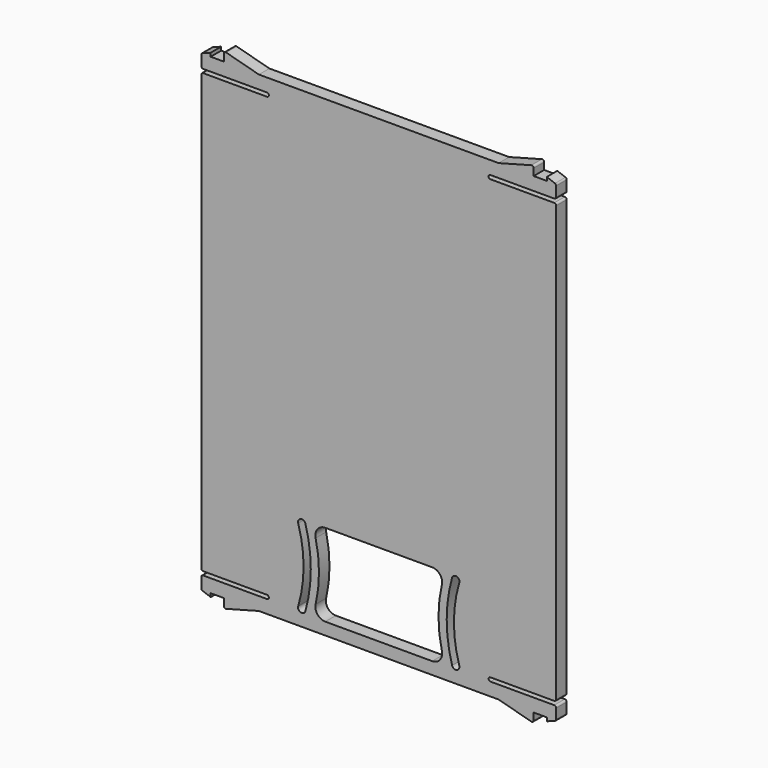
from build123d import *

# Parameters (mm, degrees)
PAD008_DEPTH = 2.8
FILLET001_R  = 0.4
POCKET_DEPTH = 2.801


with BuildPart() as part:
    # Sketch008 (on Face4 of ShapeBinder007) → Pad008 (new body)
    with BuildSketch(Plane(origin=(0, 20.1, 0), x_dir=(-1, 0, 0), z_dir=(0, 1, 0))):
        with BuildLine():
            Line((37.8, 63.2), (37.8, 60.4))
            Line((37.8, 60.4), (23.8, 60.4))
            ThreePointArc((23.8, 60.4), (23.4, 60), (23.8, 59.6))
            Line((23.8, 59.6), (37.8, 59.6))
            Line((37.8, 59.6), (37.8, -33.8))
            Line((37.8, -33.8), (23.8, -33.8))
            ThreePointArc((23.8, -33.8), (23.4, -34.2), (23.8, -34.6))
            Line((23.8, -34.6), (37.8, -34.6))
            Line((37.8, -34.6), (37.8, -37.4))
            Line((37.8, -37.4), (35.8, -38.15))
            Line((35.8, -38.15), (35.8, -37.4))
            Line((35.8, -37.4), (33, -37.4))
            Line((33, -39.4), (33, -37.4))
            Line((25.535898, -37.4), (33, -39.4))
            Line((-25.535898, -37.4), (25.535898, -37.4))
            Line((-33, -39.4), (-25.535898, -37.4))
            Line((-33, -37.4), (-33, -39.4))
            Line((-35.8, -37.4), (-33, -37.4))
            Line((-35.8, -38.15), (-35.8, -37.4))
            Line((-37.8, -37.4), (-35.8, -38.15))
            Line((-37.8, -37.4), (-37.8, -34.6))
            Line((-37.8, -34.6), (-23.8, -34.6))
            ThreePointArc((-23.8, -34.6), (-23.4, -34.2), (-23.8, -33.8))
            Line((-23.8, -33.8), (-37.8, -33.8))
            Line((-37.8, -33.8), (-37.8, 59.6))
            Line((-23.8, 59.6), (-37.8, 59.6))
            ThreePointArc((-23.8, 59.6), (-23.4, 60), (-23.8, 60.4))
            Line((-37.8, 60.4), (-23.8, 60.4))
            Line((-37.8, 60.4), (-37.8, 63.2))
            Line((-37.8, 63.2), (-35.8, 63.95))
            Line((-35.8, 63.95), (-35.8, 63.2))
            Line((-35.8, 63.2), (-33, 63.2))
            Line((-33, 65.2), (-33, 63.2))
            Line((-25.535898, 63.2), (-33, 65.2))
            Line((25.535898, 63.2), (-25.535898, 63.2))
            Line((33, 65.2), (25.535898, 63.2))
            Line((33, 63.2), (33, 65.2))
            Line((35.8, 63.2), (33, 63.2))
            Line((35.8, 63.95), (35.8, 63.2))
            Line((37.8, 63.2), (35.8, 63.95))
        make_face()
    extrude(amount=-PAD008_DEPTH)

    # Fillet001
    fillet001_edges = [part.edges().sort_by_distance(p)[0] for p in [
        (-33, 18.7, 65.2),
        (-37.8, 18.7, 63.2),
        (-37.8, 18.7, 60.4),
        (-37.8, 18.7, 59.6),
        (-37.8, 18.7, -33.8),
        (-37.8, 18.7, -34.6),
        (-37.8, 18.7, -37.4),
        (-33, 18.7, -39.4),
        (33, 18.7, 65.2),
        (37.8, 18.7, 63.2),
        (37.8, 18.7, 60.4),
        (37.8, 18.7, 59.6),
        (37.8, 18.7, -33.8),
        (37.8, 18.7, -34.6),
        (37.8, 18.7, -37.4),
        (33, 18.7, -39.4),
    ]]
    fillet(fillet001_edges, radius=FILLET001_R)

    # Sketch029 (on Face2 of Fillet001) → Pocket (cut, through all)
    with BuildSketch(Plane(origin=(0, 20.1, 0), x_dir=(-1, 0, 0), z_dir=(0, 1, 0))):
        with BuildLine():
            Line((-11.39, -34.8), (11.39, -34.8))
            ThreePointArc((11.39, -34.8), (13.043156, -34.001173), (13.444572, -32.209549))
            ThreePointArc((13.444577, -19.790431), (12.728234, -25.99999), (13.444572, -32.209549))
            ThreePointArc((13.444577, -19.790431), (13.04315, -17.998819), (11.39, -17.2))
            Line((11.39, -17.2), (-11.39, -17.2))
            ThreePointArc((-11.39, -17.2), (-13.04315, -17.998819), (-13.444577, -19.790431))
            ThreePointArc((-13.444577, -32.209569), (-12.728234, -26), (-13.444577, -19.790431))
            ThreePointArc((-13.444577, -32.209569), (-13.04315, -34.001181), (-11.39, -34.8))
        make_face()
        with BuildLine():
            ThreePointArc((-15.62035, -17.781737), (-16.614302, -17.232088), (-17.156126, -18.230327))
            ThreePointArc((-17.156126, -33.769673), (-16.013455, -26), (-17.156126, -18.230327))
            ThreePointArc((-17.156126, -33.769673), (-16.614302, -34.767912), (-15.62035, -34.218263))
            ThreePointArc((-15.62035, -34.218263), (-14.477584, -26), (-15.62035, -17.781737))
        make_face()
        with BuildLine():
            ThreePointArc((17.156126, -18.230327), (16.614302, -17.232088), (15.62035, -17.781737))
            ThreePointArc((15.62035, -17.781737), (14.477584, -26), (15.62035, -34.218263))
            ThreePointArc((15.62035, -34.218263), (16.614302, -34.767912), (17.156126, -33.769673))
            ThreePointArc((17.156126, -18.230327), (16.013455, -26), (17.156126, -33.769673))
        make_face()
    extrude(amount=-POCKET_DEPTH, mode=Mode.SUBTRACT)


solid = part.part
